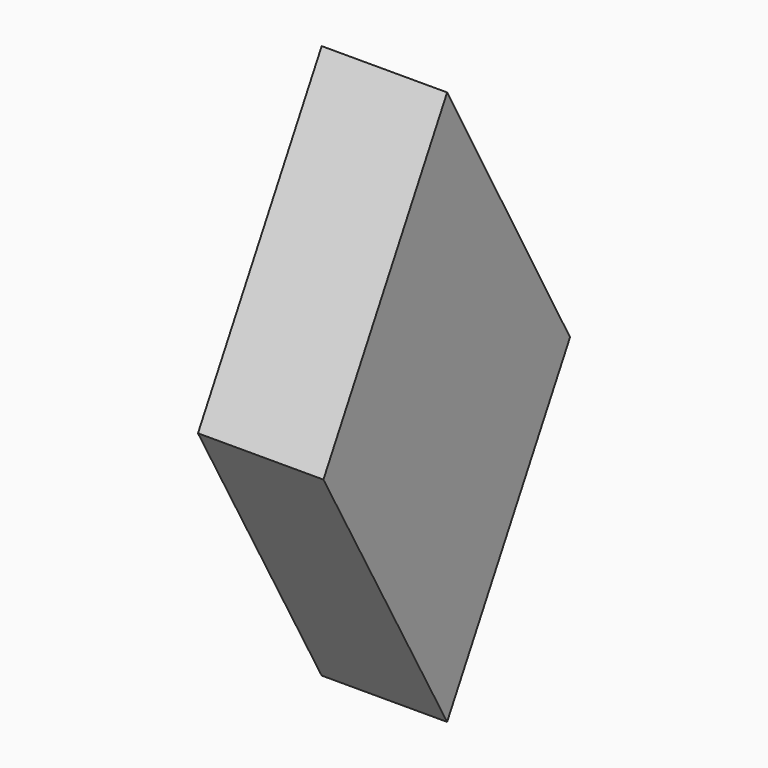
from build123d import *

# Parameters (mm, degrees)
F1_DEPTH = 28.702


with BuildPart() as f1:
    # F0 (on Right) → F1 (new body)
    with BuildSketch(Plane.YZ):
        Polygon((0, 63.607578), (0, 0), (35.154182, 0), align=None)
        Polygon((-35.382453, 0), (0, 0), (0, 63.607578), align=None)
        Polygon((0, -63.197212), (0, 0), (-35.382453, 0), align=None)
        Polygon((35.154182, 0), (0, 0), (0, -63.197212), align=None)
    extrude(amount=F1_DEPTH)


solid = f1.part
